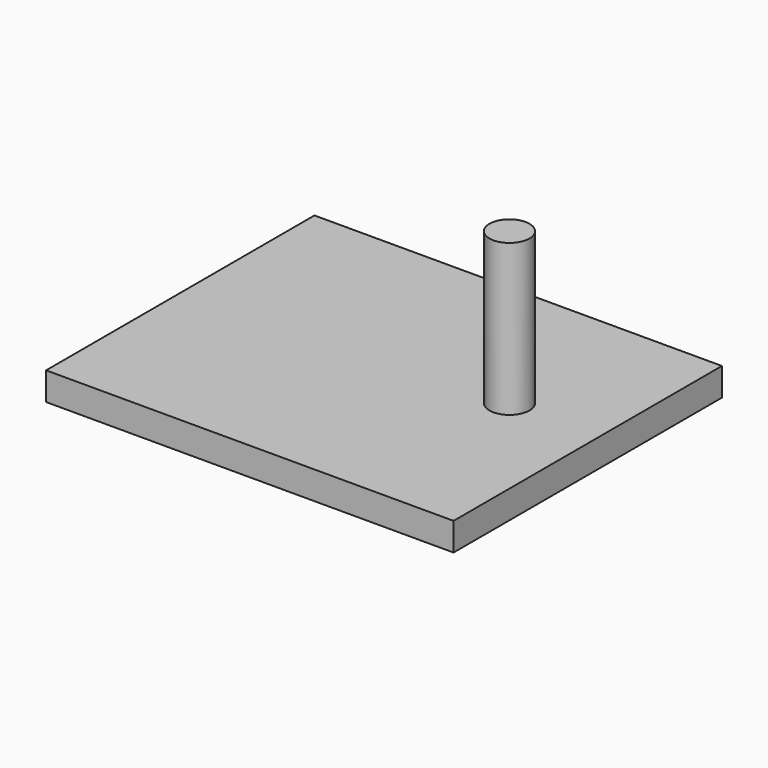
from build123d import *

# Parameters (mm, degrees)
F1_W     = 99.209953
F1_H     = 81.676372
F2_DEPTH = 6.800791
F3_R     = 4.869825
F4_DEPTH = 36.862299


with BuildPart() as f2:
    # F1 (on face) → F2 (new body)
    with BuildSketch(Plane.XY):
        with Locations((-15.814563, 3.826786)):
            Rectangle(F1_W, F1_H)
    extrude(amount=F2_DEPTH)

    # F3 (on face) → F4 (join)
    with BuildSketch(Plane.XY.offset(6.800791)):
        with Locations((11.805028, 7.481539)):
            Circle(F3_R)
    extrude(amount=F4_DEPTH)


solid = f2.part
